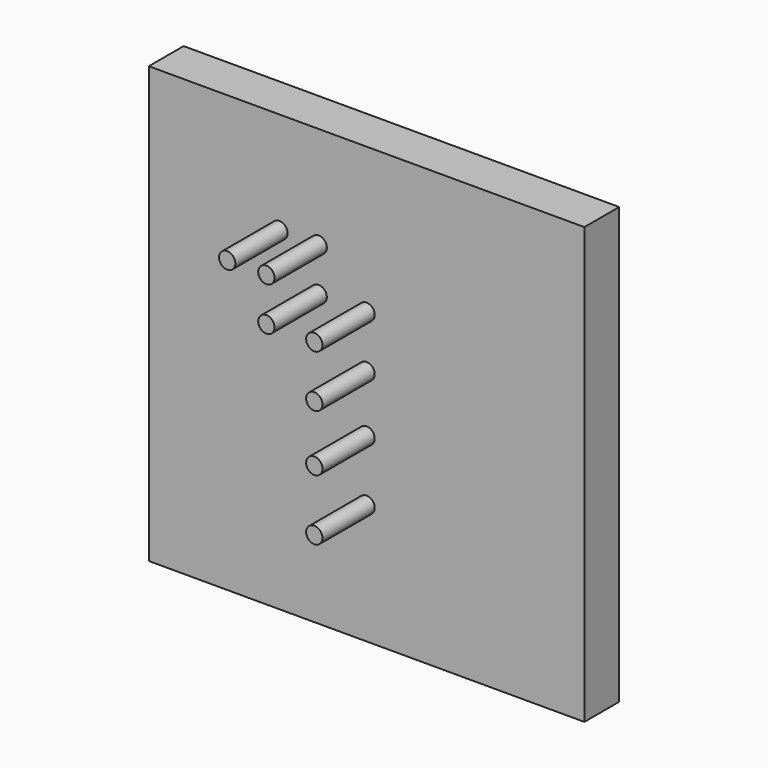
from build123d import *

# Parameters (mm, degrees)
F0_W     = 200
F0_H     = 200
F1_DEPTH = 20
F2_R     = 3.75
F3_DEPTH = 30


with BuildPart() as f1:
    # F0 (on Front) → F1 (new body)
    with BuildSketch(Plane.XZ):
        Rectangle(F0_W, F0_H)
    extrude(amount=F1_DEPTH)

    # F2 (on face) → F3 (join)
    with BuildSketch(Plane.XZ.offset(20)):
        with Locations((-40, 53.214375)):
            Circle(F2_R)
        with Locations((-22, 53.214375)):
            Circle(F2_R)
        with Locations((-22, 33.214375)):
            Circle(F2_R)
        with Locations((0, 33.214375)):
            Circle(F2_R)
        with Locations((0, 9.214375)):
            Circle(F2_R)
        with Locations((0, -16.785625)):
            Circle(F2_R)
        with Locations((0, -44.785625)):
            Circle(F2_R)
    extrude(amount=F3_DEPTH)


solid = f1.part
